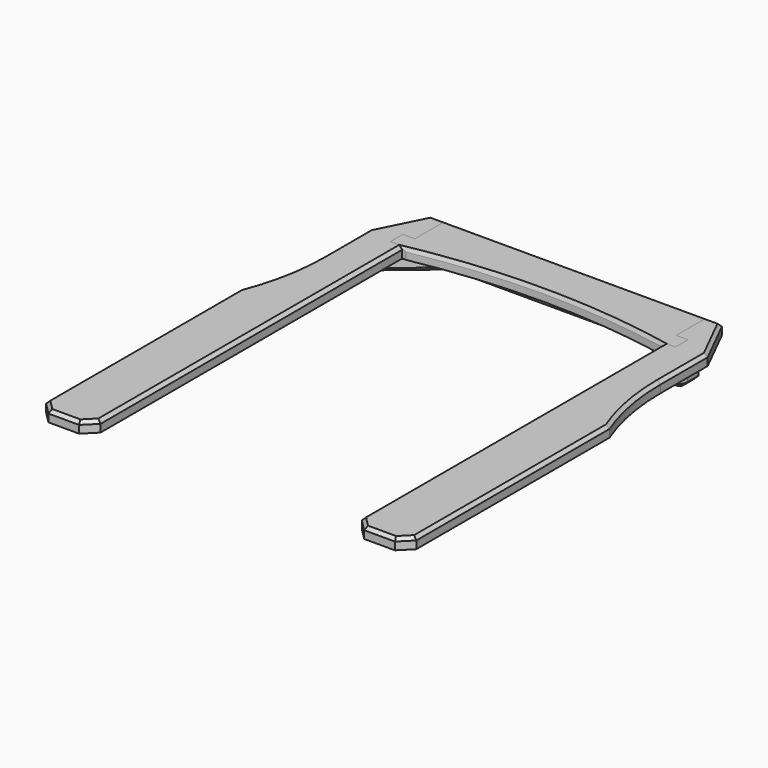
from build123d import *

# Parameters (mm, degrees)
F1_DEPTH   = 17.4625
F2_SIZE2   = 2.54
F2_SIZE    = 6.35
F4_DEPTH   = 17.4625
F5_SIZE    = 5.08
F5_2_SIZE  = 5.08
F7_DEPTH   = 19.05
F9_DEPTH   = 19.05
F10_SIZE   = 6.35
F10_2_SIZE = 6.35


with BuildPart() as f1:
    # F0 (on Top) → F1 (new body)
    with BuildSketch(Plane.XY):
        with BuildLine():
            Line((0, 25.4), (0, 0))
            Line((0, 0), (25.4, 0))
            ThreePointArc((25.4, 0), (228.6, 19.05), (431.8, 0))
            Line((431.8, 0), (457.2, 0))
            Line((457.2, 0), (457.2, 25.4))
            Line((457.2, 25.4), (438.15, 25.4))
            Line((438.15, 25.4), (438.15, 87.3125))
            Line((438.15, 87.3125), (19.05, 87.3125))
            Line((19.05, 87.3125), (19.05, 25.4))
            Line((19.05, 25.4), (0, 25.4))
        make_face()
    extrude(amount=F1_DEPTH)

    # F2
    f2_edges = [f1.edges().sort_by_distance(p)[0] for p in [
        (228.6, 19.05, 17.4625),
    ]]
    chamfer(f2_edges, length=F2_SIZE, length2=F2_SIZE2)

    # F5
    f5_edges = [f1.edges().sort_by_distance(p)[0] for p in [
        (228.6, 87.3125, 17.4625),
    ]]
    chamfer(f5_edges, length=F5_SIZE)


with BuildPart() as f4:
    # F3 (on face) → F4 (new body)
    with BuildSketch(Plane.XY.offset(17.4625)):
        with BuildLine():
            Line((19.05, 87.3125), (-4.7625, 87.3125))
            Line((-4.7625, 87.3125), (-42.8625, 11.1125))
            Line((-42.8625, 11.1125), (-42.8625, -83.26666))
            ThreePointArc((-42.8625, -83.26666), (-49.268356, -151.568186), (-68.2625, -217.4875))
            Line((-68.2625, -217.4875), (-68.2625, -604.8375))
            Line((-68.2625, -604.8375), (-49.2125, -623.8875))
            Line((-49.2125, -623.8875), (0, -623.8875))
            Line((0, -623.8875), (19.05, -604.8375))
            Line((19.05, -604.8375), (19.05, 0))
            Line((19.05, 0), (0, 0))
            Line((0, 0), (0, 25.4))
            Line((0, 25.4), (19.05, 25.4))
            Line((19.05, 25.4), (19.05, 87.3125))
        make_face()
        with BuildLine():
            Line((457.2, 25.4), (457.2, 0))
            Line((457.2, 0), (438.15, 0))
            Line((438.15, 0), (438.15, -604.8375))
            Line((438.15, -604.8375), (457.2, -623.8875))
            Line((457.2, -623.8875), (506.4125, -623.8875))
            Line((506.4125, -623.8875), (525.4625, -604.8375))
            Line((525.4625, -604.8375), (525.4625, -217.4875))
            ThreePointArc((525.4625, -217.4875), (506.468356, -151.568186), (500.0625, -83.26666))
            Line((500.0625, -83.26666), (500.0625, 11.1125))
            Line((500.0625, 11.1125), (461.9625, 87.3125))
            Line((461.9625, 87.3125), (438.15, 87.3125))
            Line((438.15, 87.3125), (438.15, 25.4))
            Line((438.15, 25.4), (457.2, 25.4))
        make_face()
    extrude(amount=-F4_DEPTH)

    # F5#2
    f5_2_edges = [f4.edges().sort_by_distance(p)[0] for p in [
        (7.14375, 87.3125, 17.4625),
        (-23.8125, 49.2125, 17.4625),
        (-42.8625, -36.07708, 17.4625),
        (-68.2625, -411.1625, 17.4625),
        (-58.7375, -614.3625, 17.4625),
        (-24.60625, -623.8875, 17.4625),
        (9.525, -614.3625, 17.4625),
        (19.05, -302.41875, 17.4625),
        (450.05625, 87.3125, 17.4625),
        (481.0125, 49.2125, 17.4625),
        (500.0625, -36.07708, 17.4625),
        (506.468356, -151.568186, 17.4625),
        (525.4625, -411.1625, 17.4625),
        (515.9375, -614.3625, 17.4625),
        (481.80625, -623.8875, 17.4625),
        (447.675, -614.3625, 17.4625),
        (438.15, -302.41875, 17.4625),
    ]]
    chamfer(f5_2_edges, length=F5_2_SIZE)


with BuildPart() as f7:
    # F6 (on face) → F7 (new body)
    with BuildSketch(Plane(origin=(0, 0, 0), x_dir=(1, 0, 0), z_dir=(0, 0, -1))):
        Polygon((6.35, -80.9625), (450.85, -80.9625), (463.55, -68.2625), (463.55, -55.5625), (450.85, -42.8625), (6.35, -42.8625), (-6.35, -55.5625), (-6.35, -68.2625), align=None)
    extrude(amount=F7_DEPTH)

    # F10#2
    f10_2_edges = [f7.edges().sort_by_distance(p)[0] for p in [
        (-6.35, 61.9125, -19.05),
        (0, 74.6125, -19.05),
        (228.6, 80.9625, -19.05),
        (457.2, 74.6125, -19.05),
        (463.55, 61.9125, -19.05),
        (457.2, 49.2125, -19.05),
        (0, 49.2125, -19.05),
    ]]
    chamfer(f10_2_edges, length=F10_2_SIZE)


with BuildPart() as f9:
    # F8 (on face) → F9 (new body)
    with BuildSketch(Plane(origin=(0, 0, -19.05), x_dir=(1, 0, 0), z_dir=(0, 0, -1))):
        with BuildLine():
            Line((471.379928, 29.428456), (385.226922, -42.8625))
            Line((385.226922, -42.8625), (444.5, -42.8625))
            Line((444.5, -42.8625), (492.243331, -2.801089))
            Line((492.243331, -2.801089), (492.243331, 19.699691))
            ThreePointArc((492.243331, 19.699691), (484.910583, 31.2098), (471.379928, 29.428456))
        make_face()
        with BuildLine():
            Line((-35.043331, 19.699691), (-35.043331, -2.801089))
            Line((-35.043331, -2.801089), (12.7, -42.8625))
            Line((12.7, -42.8625), (71.973078, -42.8625))
            Line((71.973078, -42.8625), (-14.179928, 29.428456))
            ThreePointArc((-14.179928, 29.428456), (-27.710583, 31.2098), (-35.043331, 19.699691))
        make_face()
    extrude(amount=-F9_DEPTH)

    # F10
    f10_edges = [f9.edges().sort_by_distance(p)[0] for p in [
        (468.371665, 22.831794, -19.05),
        (492.243331, -8.449301, -19.05),
        (484.910583, -31.2098, -19.05),
        (28.896575, 6.717022, -19.05),
        (-27.710583, -31.2098, -19.05),
        (-11.171665, 22.831794, -19.05),
    ]]
    chamfer(f10_edges, length=F10_SIZE)


solid = Compound([f1.part, f4.part, f7.part, f9.part])
